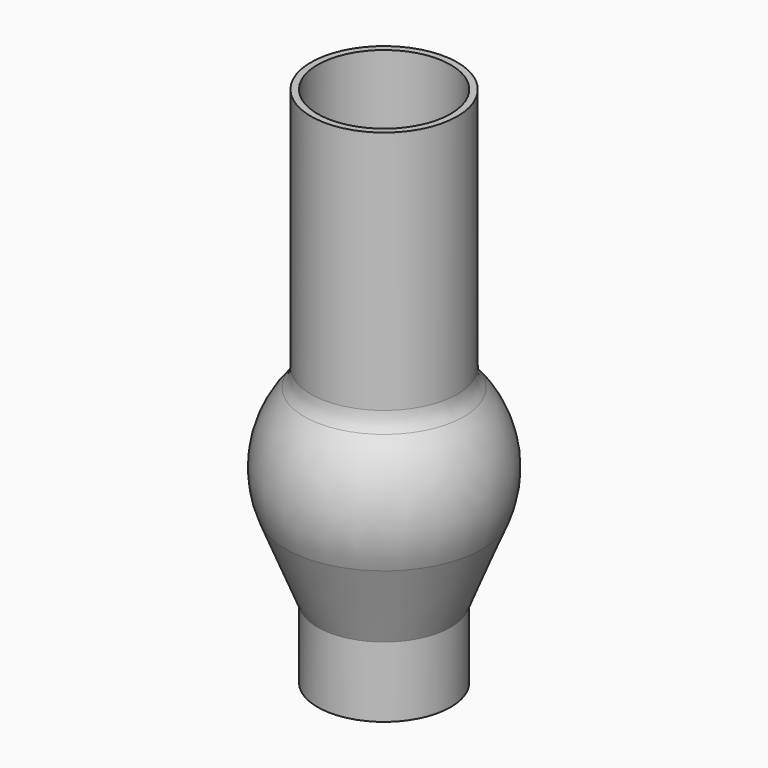
from build123d import *


with BuildPart() as f1:
    # F0 (on Front) → F1 (revolve)
    with BuildSketch(Plane.XZ):
        with BuildLine():
            ThreePointArc((22.5, 19.843135), (29.571752, 5.05089), (27.810744, -11.25))
            Line((27.810744, -11.25), (13.905372, -45.625))
            ThreePointArc((13.905372, -45.625), (8.385255, -52.437343), (0, -55))
            Line((0, -55), (0, -57))
            Line((0, -57), (20, -57))
            Line((20, -57), (20, -35.89201))
            Line((20, -35.89201), (29.664794, -12))
            ThreePointArc((29.664794, -12), (31.543202, 5.387616), (24, 21.16601))
            ThreePointArc((24, 21.16601), (22.516685, 23.629086), (22, 26.457513))
            Line((22, 26.457513), (22, 100))
            Line((22, 100), (20, 100))
            Line((20, 100), (20, 26.457513))
            ThreePointArc((20, 26.457513), (20.645857, 22.921979), (22.5, 19.843135))
        make_face()
    revolve(axis=Axis((0, 0, 55.570815), (0, 0, 1)))


solid = f1.part
